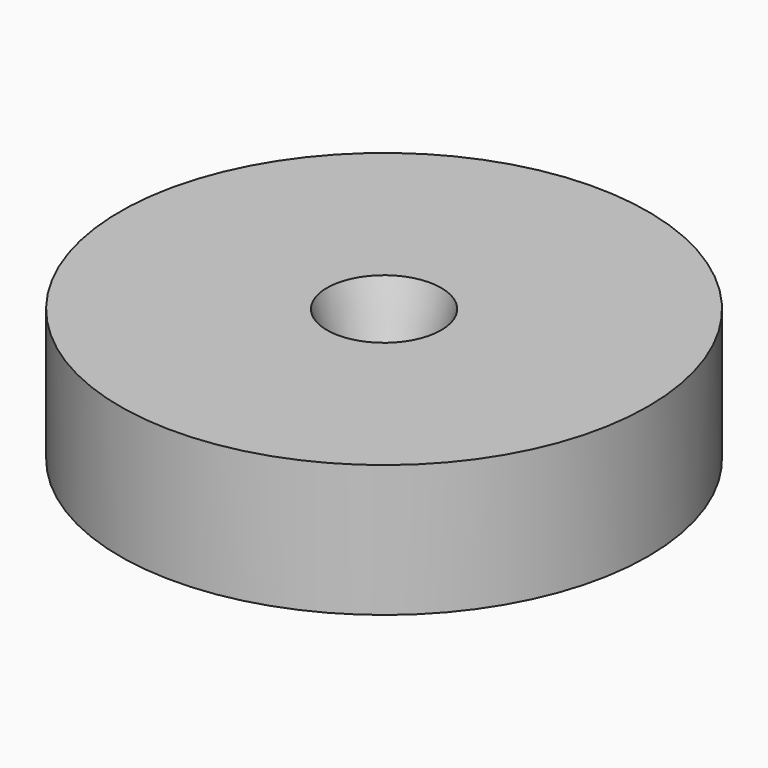
from build123d import *

# Parameters (mm, degrees)
F0_R     = 50.8
F1_DEPTH = 25.4
F2_R     = 11.0064536911
F3_DEPTH = 10.16
F3_TAPER = 16


with BuildPart() as f1:
    # F0 (on Top) → F1 (new body)
    with BuildSketch(Plane.XY):
        Circle(F0_R)
    extrude(amount=F1_DEPTH)

    # F2 (on face) → F3 (cut)
    with BuildSketch(Plane.XY.offset(25.4)):
        Circle(F2_R)
    extrude(amount=-F3_DEPTH, taper=F3_TAPER, mode=Mode.SUBTRACT)


solid = f1.part
